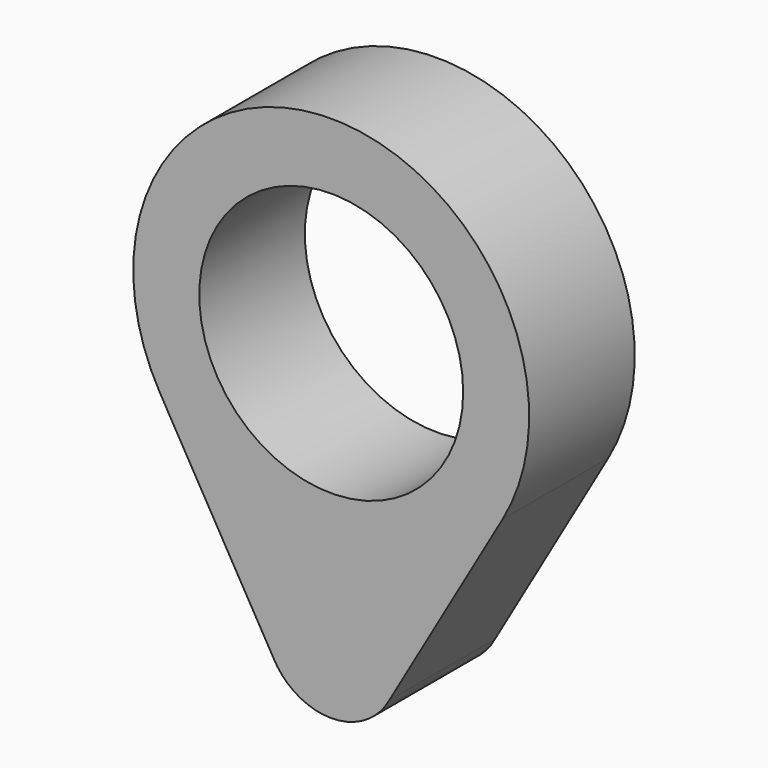
from build123d import *

# Parameters (mm, degrees)
F0_R     = 12.7
F1_DEPTH = 6.35


with BuildPart() as f1:
    # F0 (on Front) → F1 (new body, symmetric)
    with BuildSketch(Plane.XZ):
        with BuildLine():
            Line((5.58851, -28.415137), (16.496631, -9.526996))
            ThreePointArc((16.496631, -9.526996), (0, 19.05), (-16.496631, -9.526996))
            Line((-16.496631, -9.526996), (-5.58851, -28.415137))
            ThreePointArc((-5.58851, -28.415137), (0, -31.75), (5.58851, -28.415137))
        make_face()
        Circle(F0_R, mode=Mode.SUBTRACT)
    extrude(amount=F1_DEPTH, both=True)


solid = f1.part
